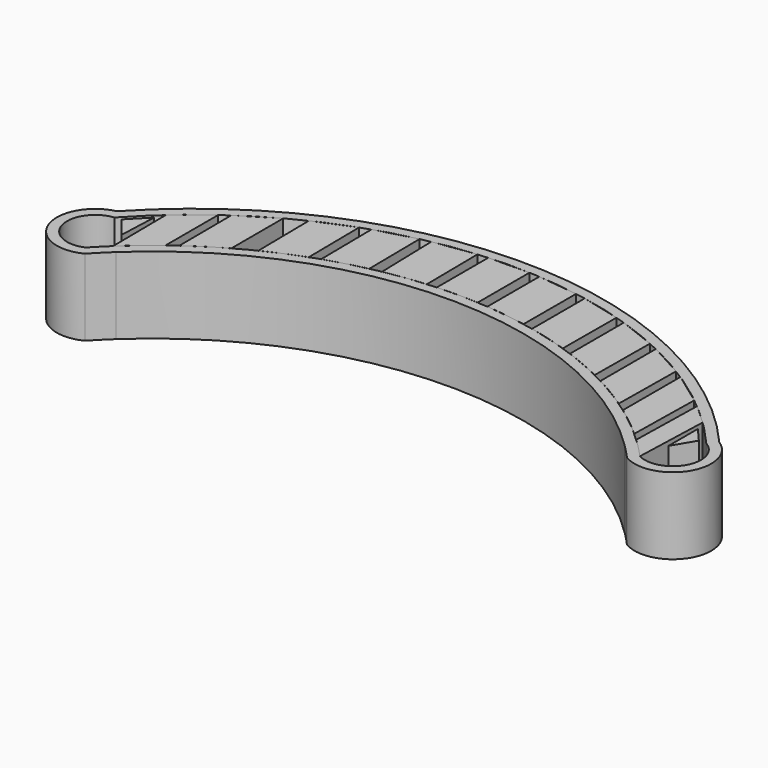
from build123d import *

# Parameters (mm, degrees)
F1_DEPTH = 15
F2_T     = -2
F4_DEPTH = 13


with BuildPart() as f1:
    # F0 (on Top) → F1 (new body)
    with BuildSketch(Plane.XY):
        with BuildLine():
            ThreePointArc((-103.4145893394, -20.0020372304), (-101.7530636303, -18.2842545923), (-100.0358769395, -16.622112979))
            ThreePointArc((-100.0358769395, -16.622112979), (-100.8380156497, -8.6749521659), (-108.3492203393, -5.9578589379))
            ThreePointArc((-108.3492203393, -5.9578589379), (-113.8289881657, -15.7722740518), (-103.4145893394, -20.0020372304))
        make_face()
        with BuildLine():
            ThreePointArc((-108.3492203393, -5.9578589379), (-100.8380156497, -8.6749521659), (-100.0358769395, -16.622112979))
            ThreePointArc((-100.0358769395, -16.622112979), (-49.4242809896, 2.9732946618), (0.62536283, -18.0159120585))
            ThreePointArc((0.62536283, -18.0159120585), (2.1522005977, -8.98989439), (11.2690780996, -8.1635935155))
            ThreePointArc((11.2690780996, -8.1635935155), (-48.0486807446, 19.5876661754), (-108.3492203393, -5.9578589379))
        make_face()
        with BuildLine():
            ThreePointArc((11.2690780996, -8.1635935155), (2.1522005977, -8.98989439), (0.62536283, -18.0159120585))
            ThreePointArc((0.62536283, -18.0159120585), (2.0460375935, -19.4621178326), (3.4257617252, -20.9474424588))
            ThreePointArc((3.4257617252, -20.9474424588), (13.6396472431, -18.4160086635), (11.2690780996, -8.1635935155))
        make_face()
    extrude(amount=F1_DEPTH)

    # F2
    f2_openings = [f1.faces().sort_by_distance(p)[0] for p in [
        (-49.774898, 4.332759, 15),
    ]]
    offset(amount=F2_T, openings=f2_openings, kind=Kind.INTERSECTION)


with BuildPart() as f4:
    # F3 (on face) → F4 (new body, through all)
    with BuildSketch(Plane.XY.offset(15)):
        with BuildLine():
            Line((-95.4898901075, -10.1742005895), (-95.4898901075, 2.7314309094))
            Line((-95.4898901075, 2.7314309094), (-101.7262580431, -2.2793290103))
            Line((-101.7262580431, -2.2793290103), (-101.5956101166, -15.3433575005))
            ThreePointArc((-101.5956101166, -15.3433575005), (-98.6121194375, -12.6768411805), (-95.4898901075, -10.1742005895))
        make_face()
    extrude(amount=-F4_DEPTH)


with BuildPart() as f4b:
    # F3 (on face) → F4, piece 2 (new body, through all)
    with BuildSketch(Plane.XY.offset(15)):
        with BuildLine():
            Line((-87.0312413723, -4.6207937288), (-87.0312413723, 8.0593059238))
            Line((-87.0312413723, 8.0593059238), (-93.8541566424, 3.882246286))
            Line((-93.8541566424, 3.882246286), (-93.7805583698, -8.9157582301))
            ThreePointArc((-93.7805583698, -8.9157582301), (-90.463537663, -6.677701138), (-87.0312413723, -4.6207937288))
        make_face()
    extrude(amount=-F4_DEPTH)


with BuildPart() as f4c:
    # F3 (on face) → F4, piece 3 (new body, through all)
    with BuildSketch(Plane.XY.offset(15)):
        with BuildLine():
            Line((-75.9613002437, 0.4730007029), (-76.1046711734, 12.9642358404))
            Line((-76.1046711734, 12.9642358404), (-83.4838928856, 9.8743997731))
            Line((-83.4838928856, 9.8743997731), (-83.3200044003, -2.6653863247))
            ThreePointArc((-83.3200044003, -2.6653863247), (-79.6827690143, -0.9974400834), (-75.9613002437, 0.4730007029))
        make_face()
    extrude(amount=-F4_DEPTH)


with BuildPart() as f4d:
    # F3 (on face) → F4, piece 4 (new body, through all)
    with BuildSketch(Plane.XY.offset(15)):
        with BuildLine():
            Line((-66.3586949755, 3.258935501), (-66.5021755213, 15.7439962339))
            Line((-66.5021755213, 15.7439962339), (-74.2144002054, 13.6175930684))
            Line((-74.2144002054, 13.6175930684), (-74.0711079848, 1.1332154879))
            ThreePointArc((-74.0711079848, 1.1332154879), (-70.24342833, 2.2995749427), (-66.3586949755, 3.258935501))
        make_face()
    extrude(amount=-F4_DEPTH)


with BuildPart() as f4e:
    # F3 (on face) → F4, piece 5 (new body, through all)
    with BuildSketch(Plane.XY.offset(15)):
        with BuildLine():
            Line((-56.2822685579, 4.7501755422), (-56.4264683123, 17.2978187198))
            Line((-56.4264683123, 17.2978187198), (-64.5441680089, 16.1516806479))
            Line((-64.5441680089, 16.1516806479), (-64.2124202231, 3.6953321573))
            ThreePointArc((-64.2124202231, 3.6953321573), (-60.2615002336, 4.3291753187), (-56.2822685579, 4.7501755422))
        make_face()
    extrude(amount=-F4_DEPTH)


with BuildPart() as f4f:
    # F3 (on face) → F4, piece 6 (new body, through all)
    with BuildSketch(Plane.XY.offset(15)):
        with BuildLine():
            Line((-46.4326556534, 17.5400977585), (-54.4321274251, 17.4481664014))
            Line((-54.4321274251, 17.4481664014), (-54.4321274251, 4.8727246799))
            ThreePointArc((-54.4321274251, 4.8727246799), (-50.4321319055, 4.980250305), (-46.432127432, 4.8730582835))
            Line((-46.432127432, 4.8730582835), (-46.4326556534, 17.5400977585))
        make_face()
    extrude(amount=-F4_DEPTH)


with BuildPart() as f4g:
    # F3 (on face) → F4, piece 7 (new body, through all)
    with BuildSketch(Plane.XY.offset(15)):
        with BuildLine():
            Line((-36.4891635139, 16.5095859122), (-44.435386294, 17.4356223741))
            Line((-44.435386294, 17.4356223741), (-44.435386294, 4.7389883998))
            ThreePointArc((-44.435386294, 4.7389883999), (-40.4569568247, 4.3104736687), (-36.5072409706, 3.6691698492))
            Line((-36.5072409706, 3.6691698492), (-36.4891635139, 16.5095859122))
        make_face()
    extrude(amount=-F4_DEPTH)


with BuildPart() as f4h:
    # F3 (on face) → F4, piece 8 (new body, through all)
    with BuildSketch(Plane.XY.offset(15)):
        with BuildLine():
            Line((-26.7574328685, 14.223014409), (-34.5213930336, 16.1519837075))
            Line((-34.5213930336, 16.1519837075), (-34.5213930336, 3.2637521859))
            ThreePointArc((-34.5213930336, 3.2637521859), (-30.6363695723, 2.3055671189), (-26.8083371744, 1.1403659015))
            Line((-26.8083371744, 1.1403659014), (-26.7574328685, 14.223014409))
        make_face()
    extrude(amount=-F4_DEPTH)


with BuildPart() as f4i:
    # F3 (on face) → F4, piece 9 (new body, through all)
    with BuildSketch(Plane.XY.offset(15)):
        with BuildLine():
            Line((-17.3954665655, 10.7175076645), (-24.8511096793, 13.6180913574))
            Line((-24.8511096793, 13.6180913574), (-24.8511096793, 0.4563537047))
            ThreePointArc((-24.8511096793, 0.4563537047), (-21.1305995668, -1.0165109937), (-17.4944514793, -2.6868262342))
            Line((-17.4944514793, -2.6868262343), (-17.3954665655, 10.7175076645))
        make_face()
    extrude(amount=-F4_DEPTH)


with BuildPart() as f4j:
    # F3 (on face) → F4, piece 10 (new body, through all)
    with BuildSketch(Plane.XY.offset(15)):
        with BuildLine():
            Line((-8.5552640176, 6.0499805347), (-15.581541431, 9.8750852013))
            Line((-15.581541431, 9.8750852013), (-15.581541431, -3.6629684785))
            ThreePointArc((-15.581541431, -3.6629684785), (-12.0953403549, -5.6271293615), (-8.7195174744, -7.775464949))
            Line((-8.7195174744, -7.775464949), (-8.5552640176, 6.0499805347))
        make_face()
    extrude(amount=-F4_DEPTH)


with BuildPart() as f4k:
    # F3 (on face) → F4, piece 11 (new body, through all)
    with BuildSketch(Plane.XY.offset(15)):
        with BuildLine():
            Line((-0.3803533632, 0.2962142563), (-6.863187541, 4.9837360987))
            Line((-6.863187541, 4.9837360987), (-6.863187541, -9.0694472612))
            ThreePointArc((-6.863187541, -9.0694472612), (-3.6795459884, -11.4934836433), (-0.6305151118, -14.08480312))
            Line((-0.6305151118, -14.08480312), (-0.3803533632, 0.2962142563))
        make_face()
    extrude(amount=-F4_DEPTH)


with BuildPart() as f4l:
    # F3 (on face) → F4, piece 12 (new body, through all)
    with BuildSketch(Plane.XY.offset(15)):
        with BuildLine():
            Line((5.1970376847, -4.6404480133), (1.1624021679, -0.9765407756))
            Line((1.1624021679, -0.9765407756), (0.8401080904, -15.4402614916))
            ThreePointArc((0.8401080904, -15.4402614916), (2.8002896228, -17.3658881786), (4.6881961793, -19.3624248329))
            Line((4.6881961792, -19.3624248328), (5.1970376847, -4.6404480133))
        make_face()
    extrude(amount=-F4_DEPTH)


with BuildPart() as f4m:
    # F3 (on face) → F4, piece 13 (new body, through all)
    with BuildSketch(Plane.XY.offset(15)):
        Polygon((8.4884027019, -9.6990149468), (5.9492685832, -6.7536202259), (5.9492685832, -13.9647591859), align=None)
    extrude(amount=-F4_DEPTH)


with BuildPart() as f4n:
    # F3 (on face) → F4, piece 14 (new body, through all)
    with BuildSketch(Plane.XY.offset(15)):
        Polygon((-102.9125899076, -11.6728357971), (-102.6082411408, -4.0640323423), (-106.1082854867, -7.6401694678), align=None)
    extrude(amount=-F4_DEPTH)


solid = Compound([f1.part, f4.part, f4b.part, f4c.part, f4d.part, f4e.part, f4f.part, f4g.part, f4h.part, f4i.part, f4j.part, f4k.part, f4l.part, f4m.part, f4n.part])
